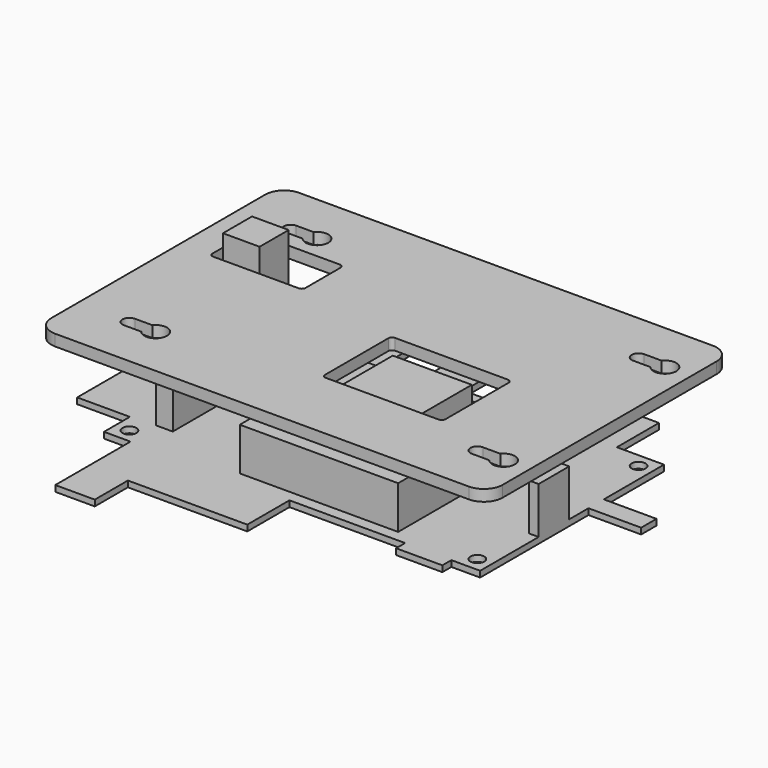
from build123d import *

# Parameters (mm, degrees)
F0_R     = 1.85
F0_W     = 4.5
F0_H     = 21
F0_W_2   = 14
F0_H_2   = 20.9
F0_W_3   = 0.05
F0_H_3   = 14
F0_W_4   = 31.75
F0_W_5   = 9.74
F0_H_4   = 9.66
F0_W_6   = 12.3
F0_H_5   = 3
F0_W_7   = 10.16
F0_W_8   = 2.54
F0_H_6   = 10.16
F0_H_7   = 5.1
F1_DEPTH = 1.6
F2_DEPTH = 32
F3_DEPTH = 21
F4_DEPTH = 14
F5_W     = 42.1
F5_H     = 38.4
F5_W_2   = 21
F5_H_2   = 19
F6_DEPTH = 13
F7_DEPTH = 24
F9_DEPTH = 3


with BuildPart() as f1:
    # F0 (on Top) → F1 (new body)
    with BuildSketch(Plane.XY):
        Polygon((0, 8.6), (0, 0), (7.05, 0), (17.5, 0), (17.55, 0), (49.3, 0), (80.05, 0), (92.35, 0), (100, 0), (100, 19.44), (97.46, 19.44), (97.46, 29.6), (100, 29.6), (100, 36), (100, 41.1), (100, 61.1), (87.47, 61.1), (77.31, 61.1), (67.11, 61.1), (56.95, 61.1), (46.75, 61.1), (36.59, 61.1), (26.39, 61.1), (16.23, 61.1), (0, 61.1), (0, 49.2), (9.74, 49.2), (9.74, 39.54), (0, 39.54), (0, 29.5), align=None)
        with Locations((3.75, 3.75)):
            Circle(F0_R, mode=Mode.SUBTRACT)
        with Locations((8.83, 19.5)):
            Rectangle(F0_W, F0_H, mode=Mode.SUBTRACT)
        with Locations((96.25, 3.75)):
            Circle(F0_R, mode=Mode.SUBTRACT)
        with Locations((3.75, 57.35)):
            Circle(F0_R, mode=Mode.SUBTRACT)
        with Locations((96.25, 57.35)):
            Circle(F0_R, mode=Mode.SUBTRACT)
        Polygon((17.5, 0), (7.05, 0), (7.05, -25), (17.55, -25), (17.55, -14), (17.5, -14), align=None)
        with Locations((-7, 19.05)):
            Rectangle(F0_W_2, F0_H_2)
        with Locations((17.525, -7)):
            Rectangle(F0_W_3, F0_H_3)
        with Locations((33.425, -7)):
            Rectangle(F0_W_4, F0_H_3)
        with Locations((4.87, 44.37)):
            Rectangle(F0_W_5, F0_H_4)
        with Locations((86.2, -1.5)):
            Rectangle(F0_W_6, F0_H_5)
        with Locations((21.31, 68.1)):
            Rectangle(F0_W_7, F0_H_3)
        with Locations((98.73, 24.52)):
            Rectangle(F0_W_8, F0_H_6)
        with Locations((41.67, 68.1)):
            Rectangle(F0_W_7, F0_H_3)
        with Locations((107, 38.55)):
            Rectangle(F0_W_2, F0_H_7)
        with Locations((62.03, 68.1)):
            Rectangle(F0_W_7, F0_H_3)
        with Locations((82.39, 68.1)):
            Rectangle(F0_W_7, F0_H_3)
        with Locations((8.83, 19.5)):
            Rectangle(F0_W, F0_H)
    extrude(amount=F1_DEPTH)

    # F0 (on Top) → F2 (join)
    with BuildSketch(Plane.XY):
        with Locations((4.87, 44.37)):
            Rectangle(F0_W_5, F0_H_4)
    extrude(amount=F2_DEPTH)

    # F0 (on Top) → F3 (join)
    with BuildSketch(Plane.XY):
        with Locations((8.83, 19.5)):
            Rectangle(F0_W, F0_H)
    extrude(amount=F3_DEPTH)

    # F0 (on Top) → F4 (join)
    with BuildSketch(Plane.XY):
        with Locations((98.73, 24.52)):
            Rectangle(F0_W_8, F0_H_6)
    extrude(amount=F4_DEPTH)

    # F5 (on Top) → F6 (join)
    with BuildSketch(Plane.XY):
        with Locations((54.75, 22.2)):
            Rectangle(F5_W, F5_H)
        with Locations((62.8, 21.1)):
            Rectangle(F5_W_2, F5_H_2, mode=Mode.SUBTRACT)
        with Locations((62.8, 21.1)):
            Rectangle(F5_W_2, F5_H_2)
    extrude(amount=F6_DEPTH)

    # F5 (on Top) → F7 (join)
    with BuildSketch(Plane.XY):
        with Locations((62.8, 21.1)):
            Rectangle(F5_W_2, F5_H_2)
    extrude(amount=F7_DEPTH)


with BuildPart() as f9:
    # F8 (on face) → F9 (new body)
    with BuildSketch(Plane.XY.offset(24)):
        with BuildLine():
            Line((105, 71.1), (-5, 71.1))
            ThreePointArc((-5, 71.1), (-8.5355339059, 69.6355339059), (-10, 66.1))
            Line((-10, 66.1), (-10, -5))
            ThreePointArc((-10, -5), (-8.5355339059, -8.5355339059), (-5, -10))
            Line((-5, -10), (105, -10))
            ThreePointArc((105, -10), (108.5355339059, -8.5355339059), (110, -5))
            Line((110, -5), (110, 66.1))
            ThreePointArc((110, 66.1), (108.5355339059, 69.6355339059), (105, 71.1))
        make_face()
        with BuildLine():
            ThreePointArc((3.75, 1.9), (1.9, 3.75), (3.75, 5.6))
            Line((3.75, 5.6), (8.3883268643, 5.6))
            ThreePointArc((8.3883268643, 5.6), (11.7285143312, 6.5859318933), (13.75, 3.75))
            ThreePointArc((13.75, 3.75), (11.7285143312, 0.9140681067), (8.3883268643, 1.9))
            Line((8.3883268643, 1.9), (3.75, 1.9))
        make_face(mode=Mode.SUBTRACT)
        with BuildLine():
            ThreePointArc((96.25, 1.9), (94.4, 3.75), (96.25, 5.6))
            Line((96.25, 5.6), (100.8883268643, 5.6))
            ThreePointArc((100.8883268643, 5.6), (104.2285143312, 6.5859318933), (106.25, 3.75))
            ThreePointArc((106.25, 3.75), (104.2285143312, 0.9140681067), (100.8883268643, 1.9))
            Line((100.8883268643, 1.9), (96.25, 1.9))
        make_face(mode=Mode.SUBTRACT)
        with BuildLine():
            ThreePointArc((50.3, 31.6), (50.5928932188, 32.3071067812), (51.3, 32.6))
            Line((51.3, 32.6), (81.3, 32.6))
            ThreePointArc((81.3, 32.6), (82.0071067812, 32.3071067812), (82.3, 31.6))
            Line((82.3, 31.6), (82.3, 10.6))
            ThreePointArc((82.3, 10.6), (82.0071067812, 9.8928932188), (81.3, 9.6))
            Line((81.3, 9.6), (51.3, 9.6))
            ThreePointArc((51.3, 9.6), (50.5928932188, 9.8928932188), (50.3, 10.6))
            Line((50.3, 10.6), (50.3, 31.6))
        make_face(mode=Mode.SUBTRACT)
        with BuildLine():
            Line((21.74, 37.54), (-1, 37.54))
            ThreePointArc((-1, 37.54), (-1.7071067812, 37.8328932188), (-2, 38.54))
            Line((-2, 38.54), (-2, 50.2))
            ThreePointArc((-2, 50.2), (-1.7071067812, 50.9071067812), (-1, 51.2))
            Line((-1, 51.2), (21.74, 51.2))
            ThreePointArc((21.74, 51.2), (22.4471067812, 50.9071067812), (22.74, 50.2))
            Line((22.74, 50.2), (22.74, 38.54))
            ThreePointArc((22.74, 38.54), (22.4471067812, 37.8328932188), (21.74, 37.54))
        make_face(mode=Mode.SUBTRACT)
        with BuildLine():
            ThreePointArc((3.75, 55.5), (1.9, 57.35), (3.75, 59.2))
            Line((3.75, 59.2), (8.3883268643, 59.2))
            ThreePointArc((8.3883268643, 59.2), (11.7285143312, 60.1859318933), (13.75, 57.35))
            ThreePointArc((13.75, 57.35), (11.7285143312, 54.5140681067), (8.3883268643, 55.5))
            Line((8.3883268643, 55.5), (3.75, 55.5))
        make_face(mode=Mode.SUBTRACT)
        with BuildLine():
            ThreePointArc((96.25, 55.5), (94.4, 57.35), (96.25, 59.2))
            Line((96.25, 59.2), (100.8883268643, 59.2))
            ThreePointArc((100.8883268643, 59.2), (104.2285143312, 60.1859318933), (106.25, 57.35))
            ThreePointArc((106.25, 57.35), (104.2285143312, 54.5140681067), (100.8883268643, 55.5))
            Line((100.8883268643, 55.5), (96.25, 55.5))
        make_face(mode=Mode.SUBTRACT)
    extrude(amount=F9_DEPTH)


solid = Compound([f1.part, f9.part])
